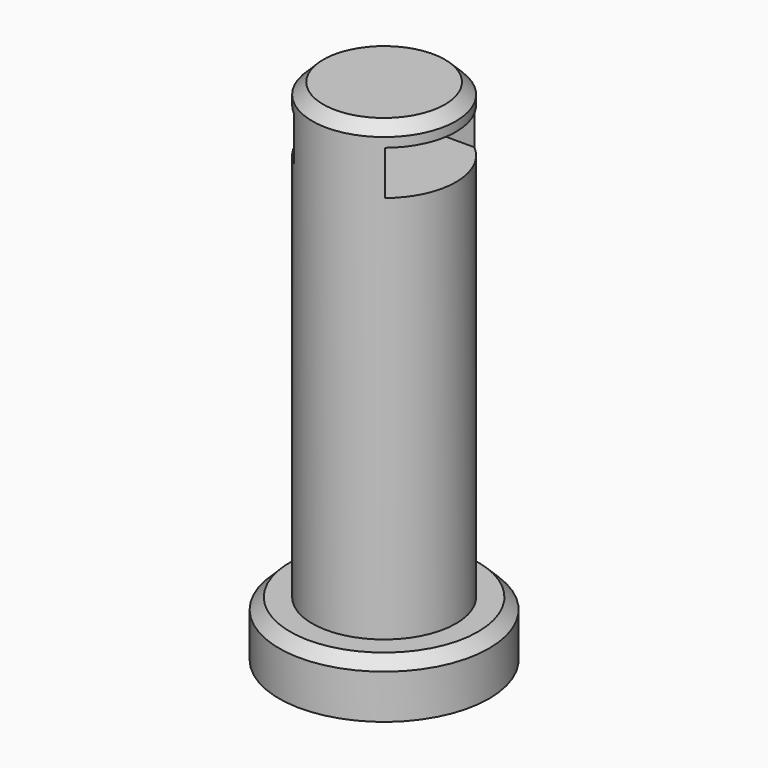
from build123d import *

# Parameters (mm, degrees)
F0_R     = 4.75
F0_R_2   = 3.25
F1_DEPTH = 2.5
F2_DEPTH = 23
F3_W     = 5
F3_H     = 2
F4_DEPTH = 12.7
F5_SIZE  = 0.5


with BuildPart() as f1:
    # F0 (on Top) → F1 (new body)
    with BuildSketch(Plane.XY):
        Circle(F0_R)
        Circle(F0_R_2, mode=Mode.SUBTRACT)
    extrude(amount=F1_DEPTH)

    # F0 (on Top) → F2 (join)
    with BuildSketch(Plane.XY):
        Circle(F0_R_2)
    extrude(amount=F2_DEPTH)

    # F3 (on Right) → F4 (cut, symmetric)
    with BuildSketch(Plane.YZ):
        with Locations((-0.014568, 21.073598)):
            Rectangle(F3_W, F3_H)
    extrude(amount=F4_DEPTH, both=True, mode=Mode.SUBTRACT)

    # F5
    f5_edges = [f1.edges().sort_by_distance(p)[0] for p in [
        (-4.75, 0, 2.5),
        (-3.25, 0, 23),
    ]]
    chamfer(f5_edges, length=F5_SIZE)


solid = f1.part
